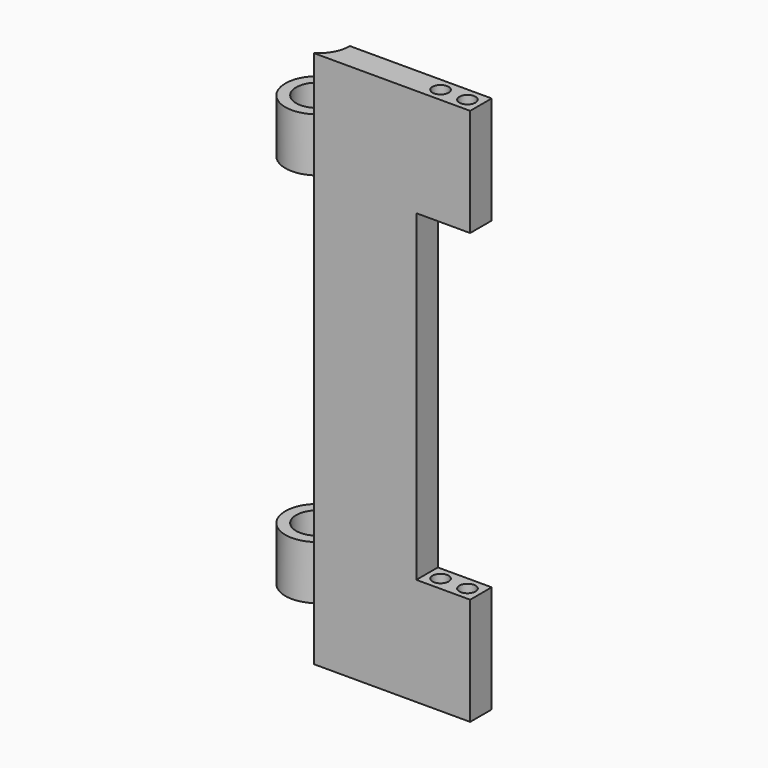
from build123d import *

# Parameters (mm, degrees)
F0_W     = 6.35
F0_H     = 6.35
F0_R     = 1.905
F1_DEPTH = 25.4
F0_R_2   = 5.08
F2_DEPTH = 12.7
F3_DEPTH = 38.1


with BuildPart() as f1:
    # F0 (on Top) → F1 (new body)
    with BuildSketch(Plane.XY):
        with BuildLine():
            Line((-57.149317, -33.320757), (-32.990752, -33.320757))
            Line((-32.990752, -33.320757), (-32.990752, -26.970757))
            Line((-32.990752, -26.970757), (-53.74143, -26.970757))
            ThreePointArc((-53.74143, -26.970757), (-54.64724, -30.574096), (-57.149317, -33.320757))
        make_face()
        with Locations((-29.815752, -30.145757)):
            Rectangle(F0_W, F0_H)
        with Locations((-29.815752, -30.145757)):
            Circle(F0_R, mode=Mode.SUBTRACT)
        with Locations((-23.465752, -30.145757)):
            Rectangle(F0_W, F0_H)
        with Locations((-23.465752, -30.145757)):
            Circle(F0_R, mode=Mode.SUBTRACT)
    extrude(amount=-F1_DEPTH)

    # F0 (on Top) → F2 (join)
    with BuildSketch(Plane.XY):
        with BuildLine():
            ThreePointArc((-57.149317, -20.620757), (-68.98143, -26.970757), (-57.149317, -33.320757))
            ThreePointArc((-57.149317, -33.320757), (-54.64724, -30.574096), (-53.74143, -26.970757))
            ThreePointArc((-53.74143, -26.970757), (-54.64724, -23.367419), (-57.149317, -20.620757))
        make_face()
        with Locations((-61.36143, -26.970757)):
            Circle(F0_R_2, mode=Mode.SUBTRACT)
    extrude(amount=-F2_DEPTH)

    # F0 (on Top) → F3 (join)
    with BuildSketch(Plane.XY):
        with BuildLine():
            Line((-57.149317, -33.320757), (-32.990752, -33.320757))
            Line((-32.990752, -33.320757), (-32.990752, -26.970757))
            Line((-32.990752, -26.970757), (-53.74143, -26.970757))
            ThreePointArc((-53.74143, -26.970757), (-54.64724, -30.574096), (-57.149317, -33.320757))
        make_face()
    extrude(amount=F3_DEPTH)

    # F4: F1 across face


with BuildPart() as f1_1:
    add(f1.part)
    add(f1.part.mirror(Plane(origin=(-43.892507, -30.223136, 38.1), x_dir=(1, 0, 0), z_dir=(0, 0, 1))))


solid = f1_1.part
